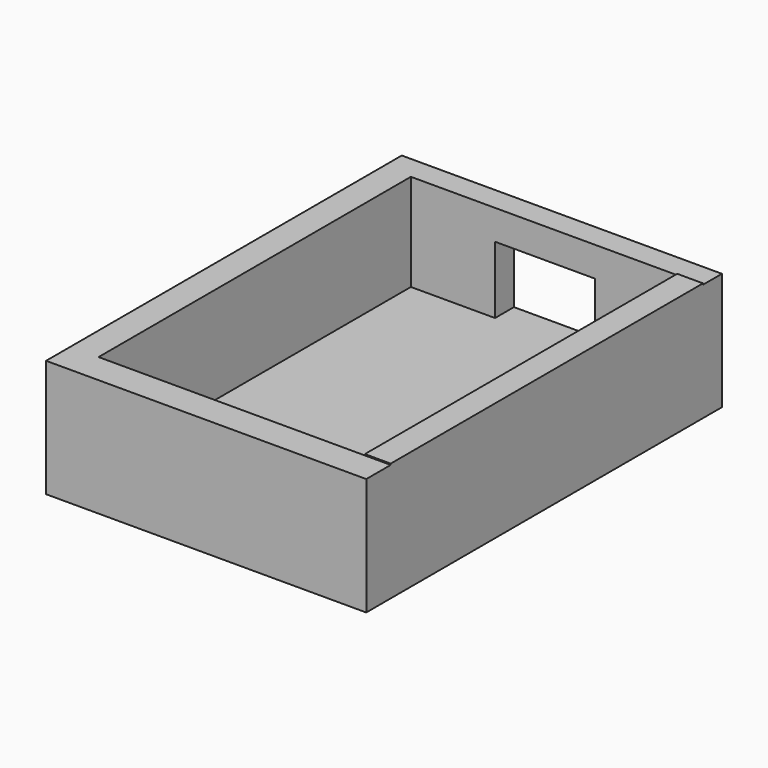
from build123d import *

# Parameters (mm, degrees)
F0_W      = 61.1153431237
F0_H      = 64.4062012434
F0_W_2    = 55.2647679579
F0_H_2    = 56.5587065648
F1_DEPTH  = 12.7
F2_W      = 55.2647679579
F2_H      = 2.967182314
F3_DEPTH  = 56.896
F5_DEPTH  = 4.318
F6_DEPTH  = 25.4
F7_DEPTH  = 7.874
F8_W      = 3.7420586476
F8_H      = 56.5587065648
F9_DEPTH  = 14.224
F10_DEPTH = 10.922
F11_DEPTH = 6.858


with BuildPart() as f1:
    # F0 (on Top) → F1 (new body)
    with BuildSketch(Plane.XY):
        with Locations((30.5576715618, -32.2031006217)):
            Rectangle(F0_W, F0_H)
        with Locations((30.3483285243, -31.7048091674)):
            Rectangle(F0_W_2, F0_H_2, mode=Mode.SUBTRACT)
    extrude(amount=F1_DEPTH)

    # F2 (on face) → F3 (join)
    with BuildSketch(Plane.XZ.offset(3.425455885)):
        with Locations((30.3483285243, 1.483591157)):
            Rectangle(F2_W, F2_H)
    extrude(amount=F3_DEPTH)

    # F5 (add): a face of the model
    f5_faces = [f1.faces().sort_by_distance(p)[0] for p in [
        (30.5576715618, -0.8878763384, 12.7),
    ]]
    extrude(f5_faces, amount=F5_DEPTH)

    # F4 (on face) → F6 (cut)
    with BuildSketch(Plane.XZ.offset(3.425455885)):
        Polygon((37.590354681, 7.833591157), (37.590354681, 12.7), (30.3483285243, 12.7), (23.1118518859, 12.7), (23.1118518859, 7.833591157), (23.1118518859, 2.967182314), (30.3483285243, 2.967182314), (37.590354681, 2.967182314), align=None)
    extrude(amount=-F6_DEPTH, mode=Mode.SUBTRACT)

    # F7 (cut): a face of the model
    f7_faces = [f1.faces().sort_by_distance(p)[0] for p in [
        (61.1153431237, -32.2031006217, 8.509),
    ]]
    extrude(f7_faces, amount=-F7_DEPTH, mode=Mode.SUBTRACT)

    # F8 (on face) → F9 (join)
    with BuildSketch(Plane.XY.offset(2.967182314)):
        with Locations((51.3703137999, -31.7048091674)):
            Rectangle(F8_W, F8_H)
    extrude(amount=F9_DEPTH)

    # F10 (add): a face of the model
    f10_faces = [f1.faces().sort_by_distance(p)[0] for p in [
        (0, -32.2031006217, 8.509),
    ]]
    extrude(f10_faces, amount=-F10_DEPTH)

    # F11 (cut): a face of the model
    f11_faces = [f1.faces().sort_by_distance(p)[0] for p in [
        (0, -32.2031006217, 8.509),
    ]]
    extrude(f11_faces, amount=-F11_DEPTH, mode=Mode.SUBTRACT)


solid = f1.part
